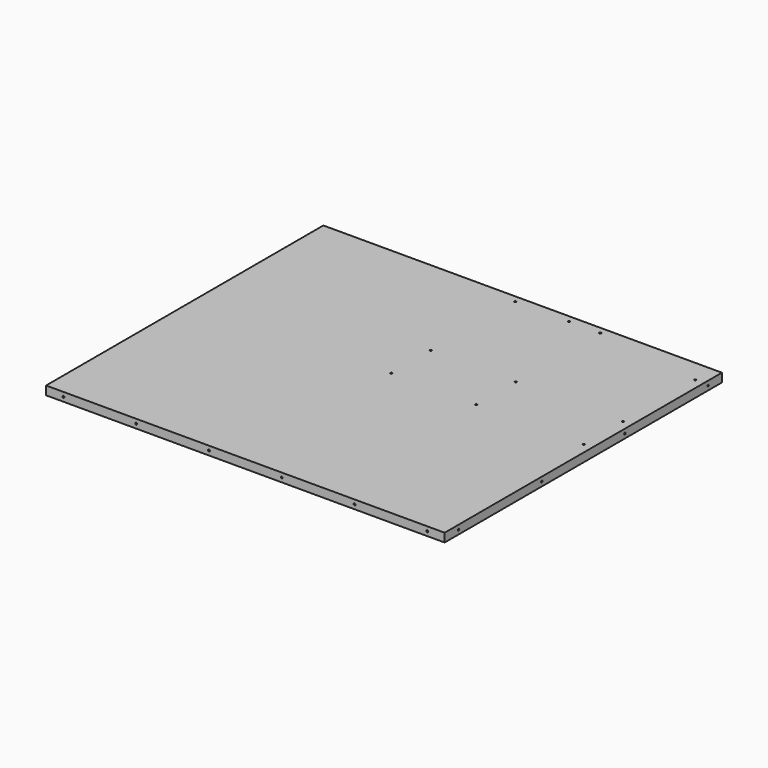
from build123d import *

# Parameters (mm, degrees)
F0_W      = 584.2
F0_H      = 508
F1_DEPTH  = 12.7
F3_D      = 2.7051
F3_DEPTH  = 16.66875
F3_TIP    = 0.8126940303
F5_D      = 2.7051
F5_DEPTH  = 16.6624
F5_TIP    = 0.8126940303
F7_D      = 2.7051
F7_DEPTH  = 16.6624
F7_TIP    = 0.8126940303
F9_D      = 2.7051
F9_DEPTH  = 16.6624
F9_TIP    = 0.8126940303
F11_D     = 2.7051
F11_DEPTH = 10.31875
F11_TIP   = 0.8126940303


with BuildPart() as f1:
    # F0 (on Top) → F1 (new body)
    with BuildSketch(Plane.XY):
        with Locations((-292.1, -254)):
            Rectangle(F0_W, F0_H)
    extrude(amount=F1_DEPTH)

    # F3
    with Locations(Plane.YZ):
        with Locations((-25.4, 6.35), (-177.8, 6.35), (-330.2, 6.35), (-722.6819738701, 6.35), (-482.6, 6.35)):
            Hole(F3_D / 2, depth=F3_DEPTH)
            with Locations((0, 0, -(F3_DEPTH + F3_TIP / 2))):  # 118° drill point
                Cone(0, F3_D / 2, F3_TIP, mode=Mode.SUBTRACT)

    # F5
    with Locations(Plane.XZ.offset(508)):
        with Locations((-25.4, 6.35), (-132.08, 6.35), (-238.76, 6.35), (-345.44, 6.35), (-452.12, 6.35), (-558.8, 6.35)):
            Hole(F5_D / 2, depth=F5_DEPTH)
            with Locations((0, 0, -(F5_DEPTH + F5_TIP / 2))):  # 118° drill point
                Cone(0, F5_D / 2, F5_TIP, mode=Mode.SUBTRACT)

    # F7
    with Locations(Plane(origin=(-584.2, 0, 0), x_dir=(0, -1, 0), z_dir=(-1, 0, 0))):
        with Locations((482.6, 6.35), (330.2, 6.35), (177.8, 6.35), (25.4, 6.35)):
            Hole(F7_D / 2, depth=F7_DEPTH)
            with Locations((0, 0, -(F7_DEPTH + F7_TIP / 2))):  # 118° drill point
                Cone(0, F7_D / 2, F7_TIP, mode=Mode.SUBTRACT)

    # F9
    with Locations(Plane(origin=(0, 0, 0), x_dir=(-1, 0, 0), z_dir=(0, 1, 0))):
        with Locations((25.4, 6.35), (132.08, 6.35), (238.76, 6.35), (345.44, 6.35), (452.12, 6.35), (558.8, 6.35)):
            Hole(F9_D / 2, depth=F9_DEPTH)
            with Locations((0, 0, -(F9_DEPTH + F9_TIP / 2))):  # 118° drill point
                Cone(0, F9_D / 2, F9_TIP, mode=Mode.SUBTRACT)

    # F11
    with Locations(Plane.XY.offset(12.7)):
        with Locations((-12.7, -33.02), (-294.64, -165.1), (-170.18, -237.49), (-170.18, -165.1), (-294.64, -237.49), (-12.7, -237.49), (-294.64, -10.16), (-12.7, -165.1), (-170.18, -10.16), (-215.9, -10.16)):
            Hole(F11_D / 2, depth=F11_DEPTH)
            with Locations((0, 0, -(F11_DEPTH + F11_TIP / 2))):  # 118° drill point
                Cone(0, F11_D / 2, F11_TIP, mode=Mode.SUBTRACT)


solid = f1.part
